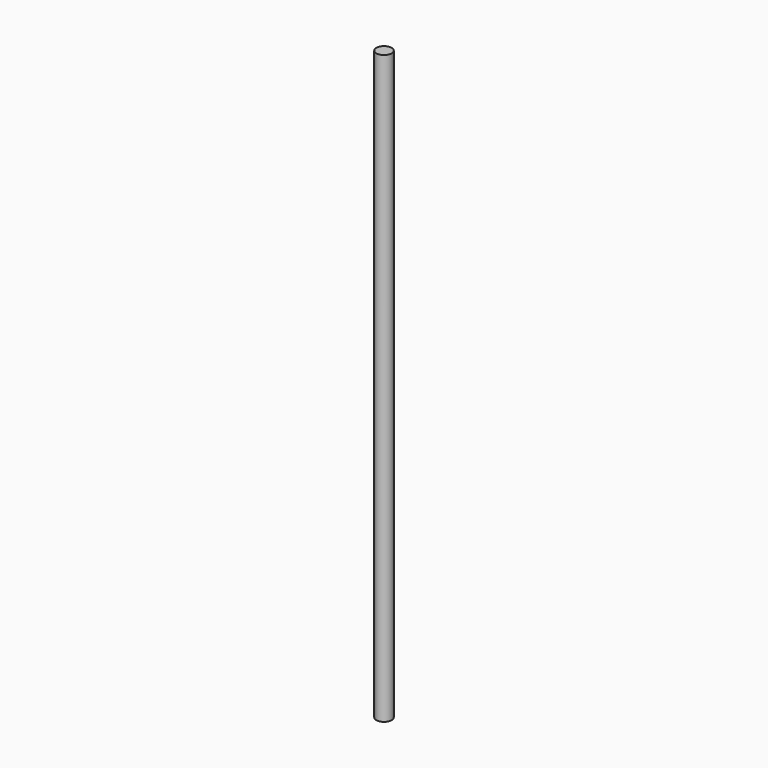
from build123d import *

# Parameters (mm, degrees)
SKETCH_R      = 24.15
EXTRUDE_DEPTH = 1860


with BuildPart() as part:
    # Sketch → Extrude (new body)
    with BuildSketch(Plane.XY):
        Circle(SKETCH_R)
    extrude(amount=EXTRUDE_DEPTH)


solid = part.part
